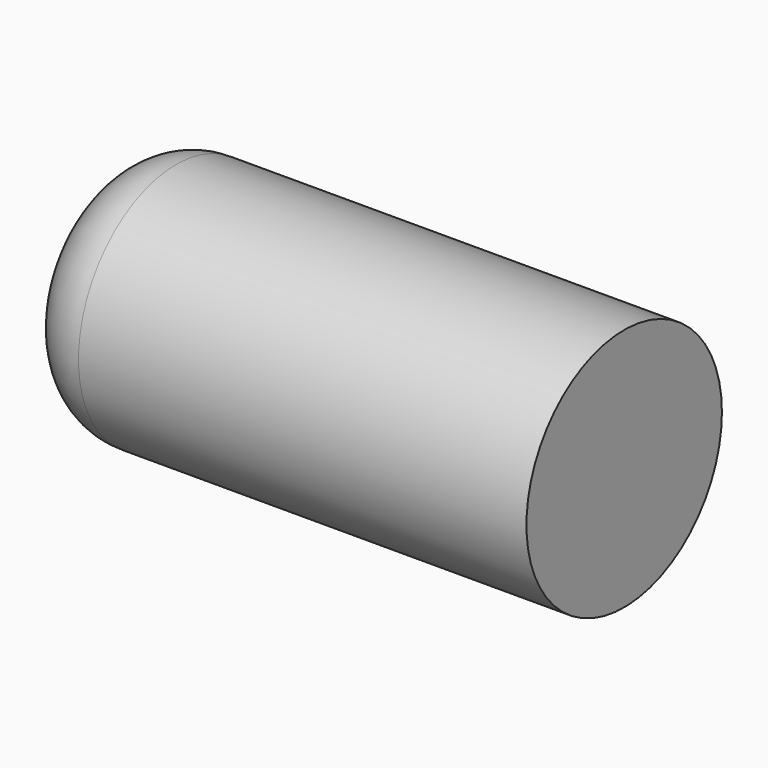
from build123d import *

# Parameters (mm, degrees)
F0_R     = 9
F1_DEPTH = 38
F2_R     = 5


with BuildPart() as f1:
    # F0 (on Right) → F1 (new body)
    with BuildSketch(Plane.YZ):
        Circle(F0_R)
    extrude(amount=-F1_DEPTH)

    # F2
    f2_edges = [f1.edges().sort_by_distance(p)[0] for p in [
        (-38, -9, 0),
    ]]
    fillet(f2_edges, radius=F2_R)


solid = f1.part
